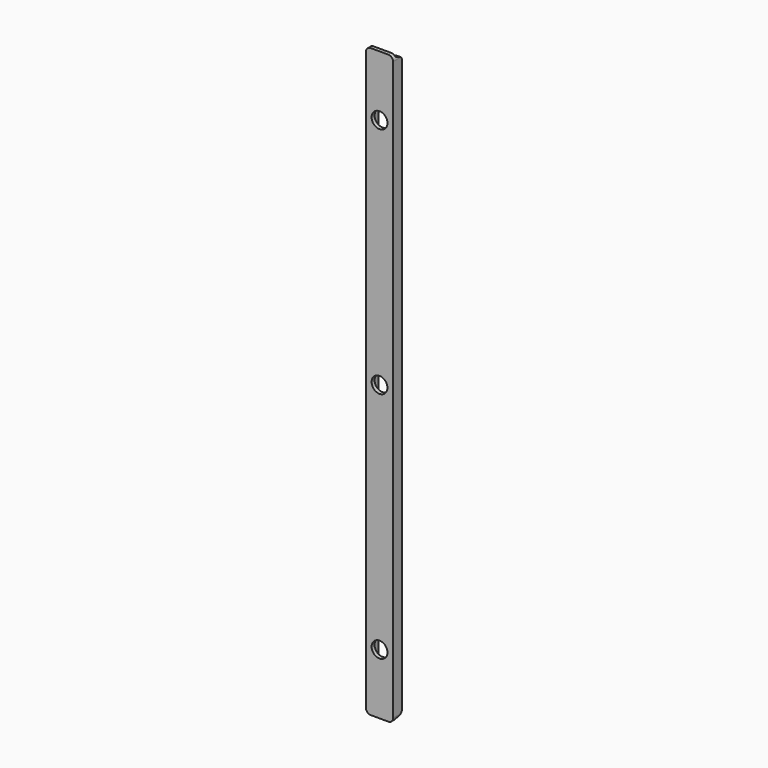
from build123d import *

# Parameters (mm, degrees)
PAD_DEPTH       = 126
POCKET_DEPTH    = 5.801
FILLET_R        = 1
FILLET001_R     = 1
SKETCH002_R     = 1.7
POCKET001_DEPTH = 5


with BuildPart() as part:
    # Sketch → Pad (new body)
    with BuildSketch(Plane.XY):
        Polygon((-2.9, 0), (2.9, 0), (2.9, 2.4), (2.1, 2.4), (2.1, 0.8), (-2.1, 0.8), (-2.1, 2.4), (-2.9, 2.4), align=None)
    extrude(amount=PAD_DEPTH)

    # Sketch001 → Pocket (cut, through all)
    with BuildSketch(Plane.YZ.offset(2.9)):
        Polygon((0.8, 0), (0.8, 0.5), (2.4, 1), (2.4, 0), align=None)
        Polygon((0.8, 126), (2.4, 126), (2.4, 125), (0.8, 125.5), align=None)
    extrude(amount=-POCKET_DEPTH, mode=Mode.SUBTRACT)

    # Fillet
    fillet_edges = [part.edges().sort_by_distance(p)[0] for p in [
        (2.9, 0.4, 126),
        (-2.9, 0.4, 126),
        (2.9, 0.4, 0),
        (-2.9, 0.4, 0),
    ]]
    fillet(fillet_edges, radius=FILLET_R)

    # Fillet001
    fillet001_edges = [part.edges().sort_by_distance(p)[0] for p in [
        (2.5, 2.4, 1),
        (-2.5, 2.4, 1),
        (2.5, 2.4, 125),
        (-2.5, 2.4, 125),
    ]]
    fillet(fillet001_edges, radius=FILLET001_R)

    # Sketch002 → Pocket001 (cut)
    with BuildSketch(Plane.XZ):
        with Locations((0, 63)):
            Circle(SKETCH002_R)
        with Locations((0, 113)):
            Circle(SKETCH002_R)
        with Locations((0, 13)):
            Circle(SKETCH002_R)
    extrude(amount=-POCKET001_DEPTH, mode=Mode.SUBTRACT)


solid = part.part
